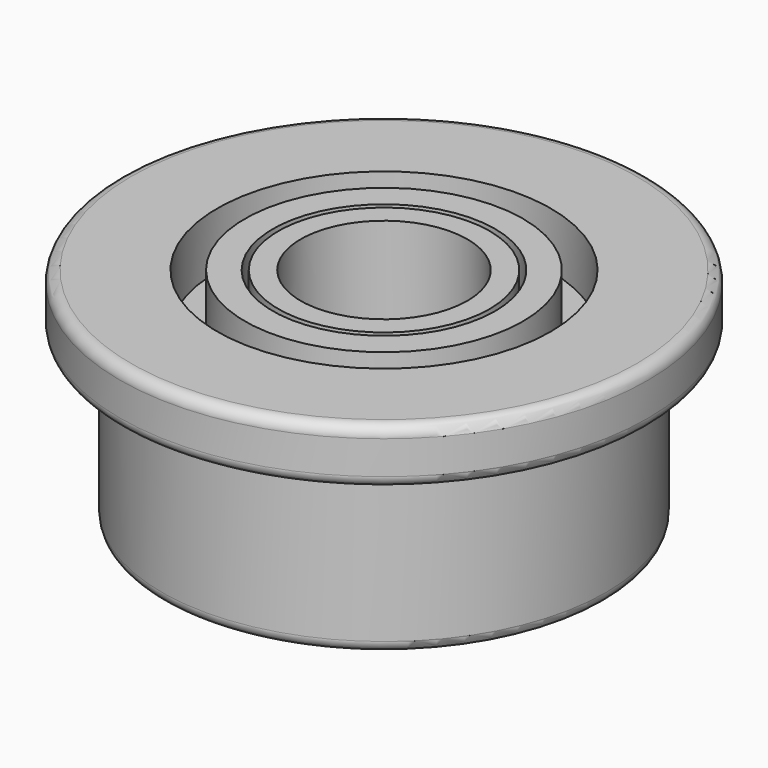
from build123d import *

# Parameters (mm, degrees)
F2_R     = 1.9
F2_R_2   = 1.5
F3_DEPTH = 4
F4_R     = 0.2


with BuildPart() as f1:
    # F0 (on Front) → F1 (revolve)
    with BuildSketch(Plane.XZ):
        with BuildLine():
            Line((2.5, 4), (2, 4))
            Line((2, 4), (2, 0))
            Line((2, 0), (2.5, 0))
            Line((2.5, 0), (2.5, 1))
            Line((2.5, 1), (3, 1))
            Line((3, 1), (3, 0))
            Line((3, 0), (4, 0))
            Line((4, 0), (4, 2.95))
            ThreePointArc((4, 2.95), (3.964645, 3.035355), (4.05, 3))
            Line((4.05, 3), (4.75, 3))
            Line((4.75, 3), (4.75, 4))
            Line((4.75, 4), (3, 4))
            Line((3, 4), (3, 3))
            Line((3, 3), (2.5, 3))
            Line((2.5, 3), (2.5, 4))
        make_face()
    revolve(axis=Axis((0, 0, 2), (0, 0, 1)))

    # F4
    f4_edges = [f1.edges().sort_by_distance(p)[0] for p in [
        (-4.75, 0, 4),
        (-4.75, 0, 3),
        (-4, 0, 0),
    ]]
    fillet(f4_edges, radius=F4_R)


with BuildPart() as f3:
    # F2 (on face) → F3 (new body)
    with BuildSketch(Plane.XY.offset(4)):
        Circle(F2_R)
        Circle(F2_R_2, mode=Mode.SUBTRACT)
    extrude(amount=-F3_DEPTH)


solid = Compound([f1.part, f3.part])
